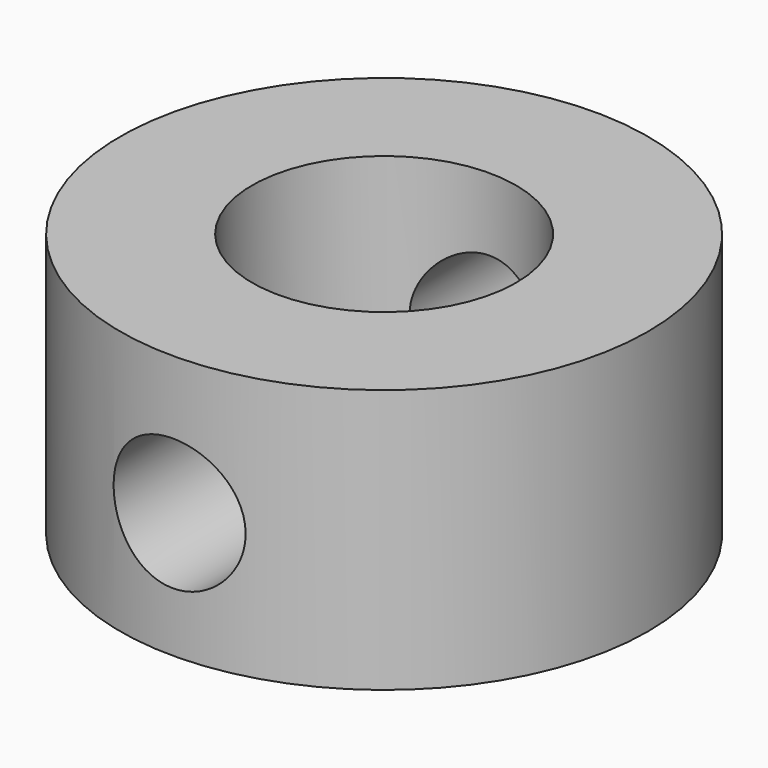
from build123d import *

# Parameters (mm, degrees)
F0_R     = 10
F1_DEPTH = 10
F2_R     = 5
F3_DEPTH = 25
F4_R     = 2.5
F5_DEPTH = 12.5


with BuildPart() as f1:
    # F0 (on Top) → F1 (new body)
    with BuildSketch(Plane.XY):
        Circle(F0_R)
    extrude(amount=F1_DEPTH)

    # F2 (on face) → F3 (cut)
    with BuildSketch(Plane.XY.offset(10)):
        Circle(F2_R)
    extrude(amount=-F3_DEPTH, mode=Mode.SUBTRACT)

    # F4 (on Front) → F5 (cut, symmetric)
    with BuildSketch(Plane.XZ):
        with Locations((0, 4.75)):
            Circle(F4_R)
    extrude(amount=F5_DEPTH, both=True, mode=Mode.SUBTRACT)


solid = f1.part
